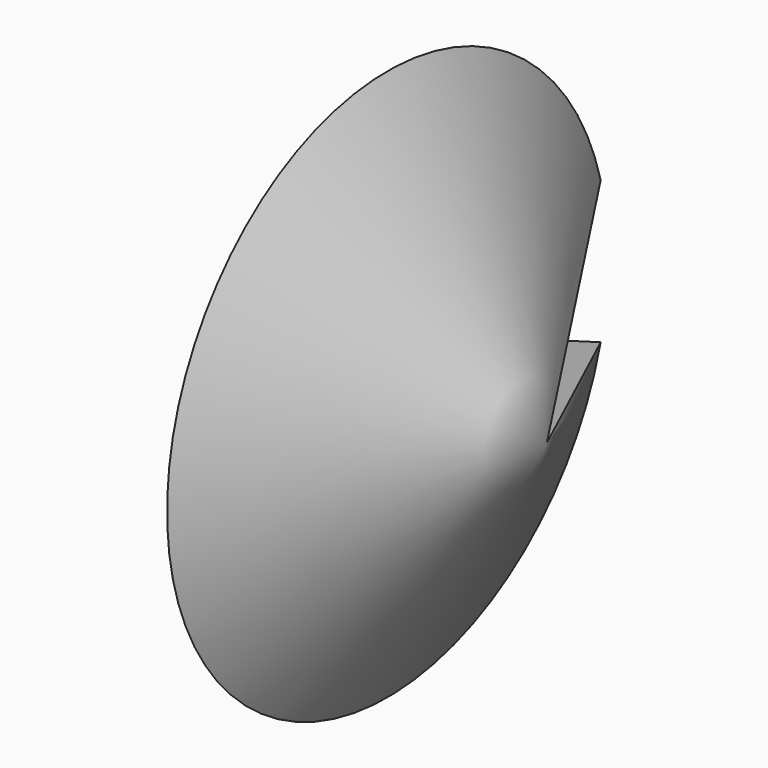
from build123d import *

# Parameters (mm, degrees)
F1_ANGLE_BACK = 165
F1_ANGLE      = 330


with BuildPart() as f1:
    # F0 (on Top) → F1 (revolve)
    with BuildSketch(Plane.XY, mode=Mode.PRIVATE) as f1_sk:
        Polygon((69.5395171642, 0), (-69.5395171642, 0), (0, -120.4459768623), align=None)
    revolve(f1_sk.sketch.rotate(Axis((0, 0, 0), (-1, 0, 0)), -F1_ANGLE_BACK), axis=Axis((0, 0, 0), (-1, 0, 0)), revolution_arc=F1_ANGLE)


solid = f1.part
